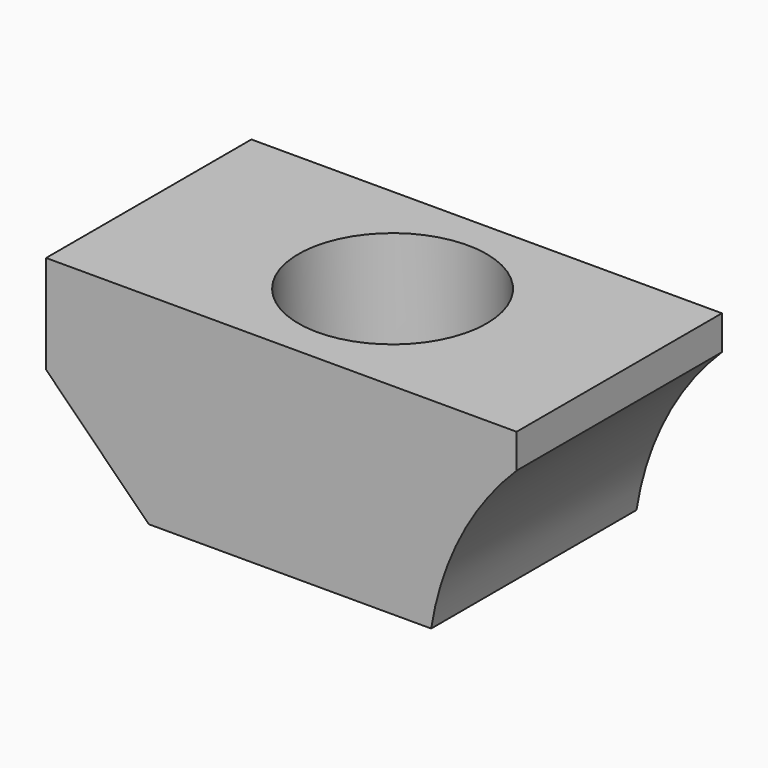
from build123d import *

# Parameters (mm, degrees)
F1_DEPTH       = 15
F3_D           = 6.95
F3_CBORE_D     = 11
F3_CBORE_DEPTH = 6.5


with BuildPart() as f1:
    # F0 (on Front) → F1 (new body)
    with BuildSketch(Plane.XZ):
        with BuildLine():
            Line((13.75, 5.535829), (-13.75, 5.535829))
            Line((-13.75, 5.535829), (-13.75, -0.214171))
            Line((-13.75, -0.214171), (-7.75, -6.214171))
            Line((-7.75, -6.214171), (8.757582, -6.214171))
            ThreePointArc((8.757582, -6.214171), (10.471279, -0.938491), (13.75, 3.535829))
            Line((13.75, 3.535829), (13.75, 5.535829))
        make_face()
    extrude(amount=F1_DEPTH)

    # F3 (through all)
    with Locations(Plane.XY.offset(5.535829)):
        with Locations((0.5, -7.5)):
            CounterBoreHole(F3_D / 2, F3_CBORE_D / 2, F3_CBORE_DEPTH)


solid = f1.part
